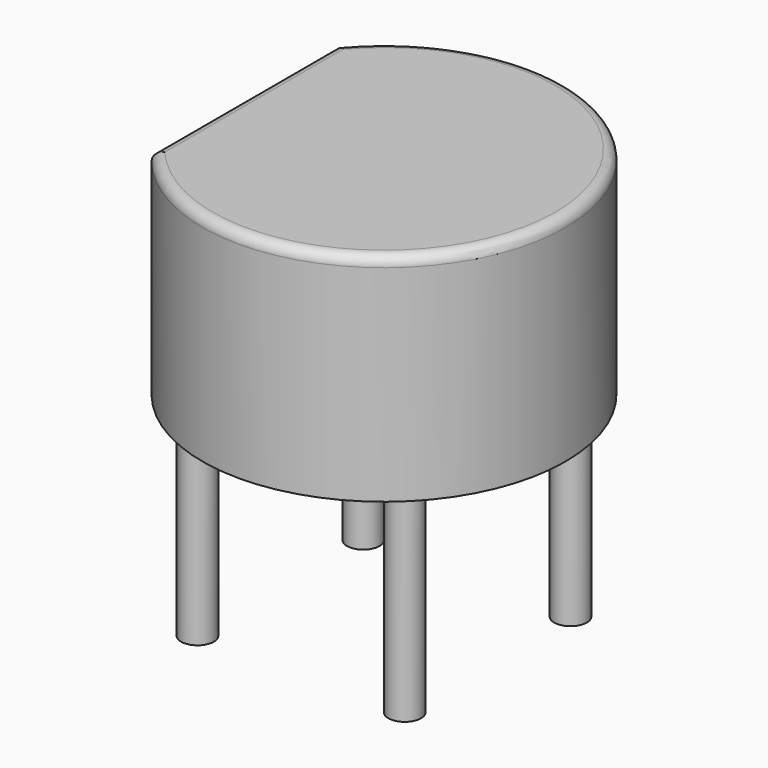
from build123d import *

# Parameters (mm, degrees)
PAD001_DEPTH = 5.3
FILLET_R     = 0.25
SKETCH_R     = 0.4
PAD_DEPTH    = 5


with BuildPart() as fillet_body:
    # Sketch001 → Pad001 (new body)
    with BuildSketch(Plane.XY):
        with BuildLine():
            Line((-0.9, 0.282924), (-0.9, -5.362924))
            ThreePointArc((-0.9, -5.362924), (6.99, -2.54), (-0.9, 0.282924))
        make_face()
    extrude(amount=PAD001_DEPTH)

    # Fillet
    fillet_edges = [fillet_body.edges().sort_by_distance(p)[0] for p in [
        (-0.9, -2.54, 5.3),
        (6.99, -2.54, 5.3),
    ]]
    fillet(fillet_edges, radius=FILLET_R)


with BuildPart() as diode_bridge_round_d8_9mm:
    # Sketch → Pad (new body)
    with BuildSketch(Plane.XY):
        Circle(SKETCH_R)
        with Locations((5.08, 0)):
            Circle(SKETCH_R)
        with Locations((5.08, -5.08)):
            Circle(SKETCH_R)
        with Locations((0, -5.08)):
            Circle(SKETCH_R)
    extrude(amount=-PAD_DEPTH)

    add(fillet_body.part)


solid = diode_bridge_round_d8_9mm.part
